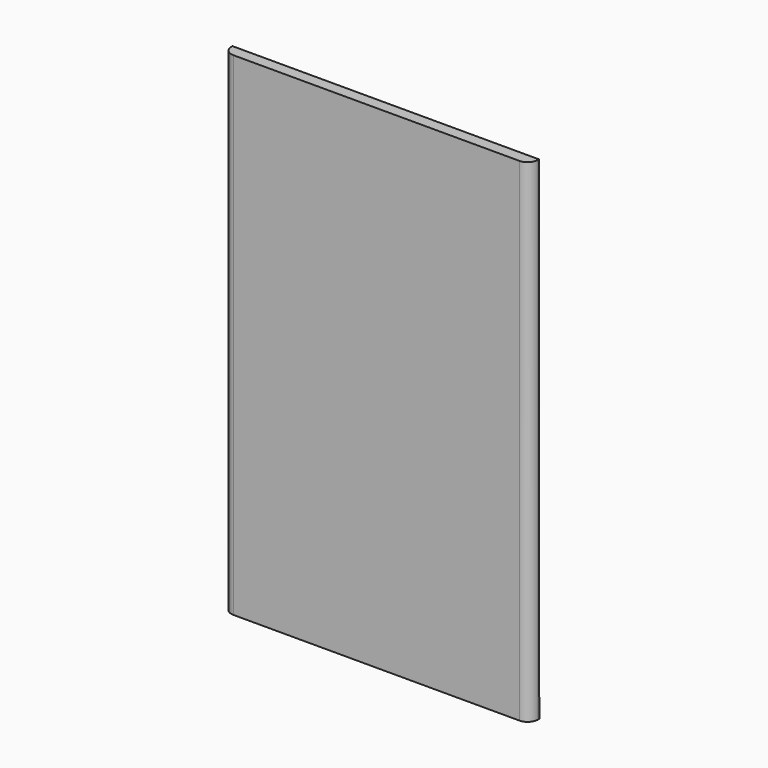
from build123d import *

# Parameters (mm, degrees)
F0_W     = 60.565564
F0_H     = 97.339354
F1_DEPTH = 2.286
F2_R     = 2.032
F3_W     = 7.62
F3_H     = 3.81
F4_DEPTH = 0.127


with BuildPart() as f1:
    # F0 (on Front) → F1 (new body)
    with BuildSketch(Plane.XZ):
        Rectangle(F0_W, F0_H)
    extrude(amount=F1_DEPTH)

    # F2
    f2_edges = [f1.edges().sort_by_distance(p)[0] for p in [
        (30.282782, -2.286, 0),
        (-30.282782, -2.286, 0),
    ]]
    fillet(f2_edges, radius=F2_R)

    # F3 (on face) → F4 (join, symmetric)
    with BuildSketch(Plane(origin=(0, 0, 0), x_dir=(-1, 0, 0), z_dir=(0, 1, 0))):
        with Locations((-26.472782, -46.764677)):
            Rectangle(F3_W, F3_H)
        with Locations((26.472782, -46.764677)):
            Rectangle(F3_W, F3_H)
    extrude(amount=F4_DEPTH, both=True)


solid = f1.part
